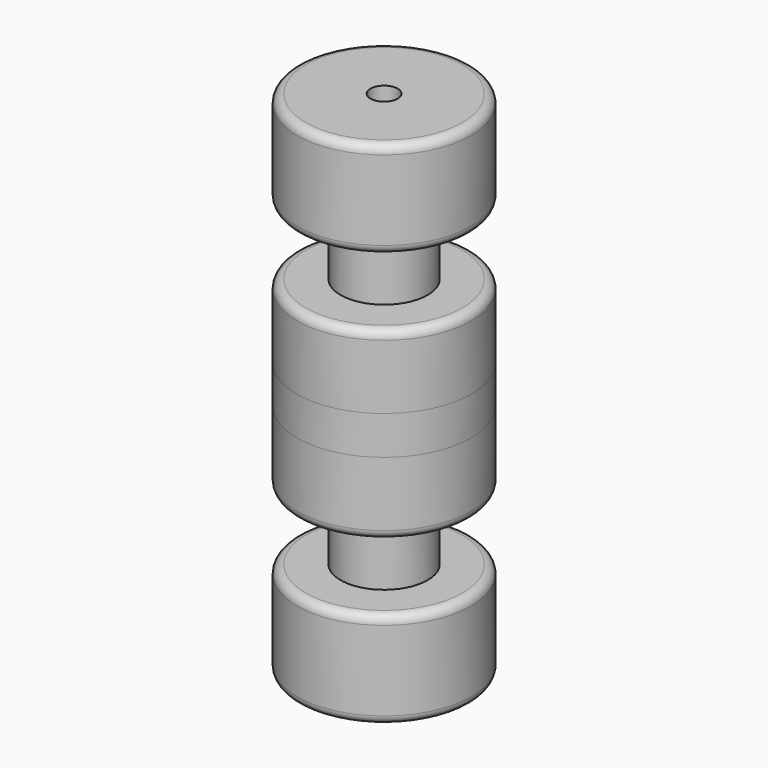
from build123d import *

# Parameters (mm, degrees)
F2_R           = 5.08
F5_D           = 9.525
F5_CBORE_D     = 15.875
F5_CBORE_DEPTH = 19.05


with BuildPart() as f1:
    # F0 (on Front) → F1 (revolve)
    with BuildSketch(Plane.XZ):
        Polygon((0, -53.9769612057), (50.8, -53.9769612057), (50.8, 16.3429528475), (25.4, 16.3429528475), (25.4, 92.5429528475), (50.8, 92.5429528475), (50.8, 149.2230387943), (0, 149.2230387943), align=None)
    revolve(axis=Axis((0, 0, 47.6230387943), (0, 0, 1)))

    # F2
    f2_edges = [f1.edges().sort_by_distance(p)[0] for p in [
        (-50.8, 0, -53.976961),
        (-50.8, 0, 16.342953),
        (-50.8, 0, 149.223039),
        (-50.8, 0, 92.542953),
    ]]
    fillet(f2_edges, radius=F2_R)

    # F3: F1 across plane


with BuildPart() as f1_1:
    add(f1.part)
    add(f1.part.mirror(Plane.XY))

    # F5 (through all)
    with Locations(Plane.XY.offset(149.2230387943)):
        with Locations((0, 0)):
            CounterBoreHole(F5_D / 2, F5_CBORE_D / 2, F5_CBORE_DEPTH)


solid = f1_1.part
